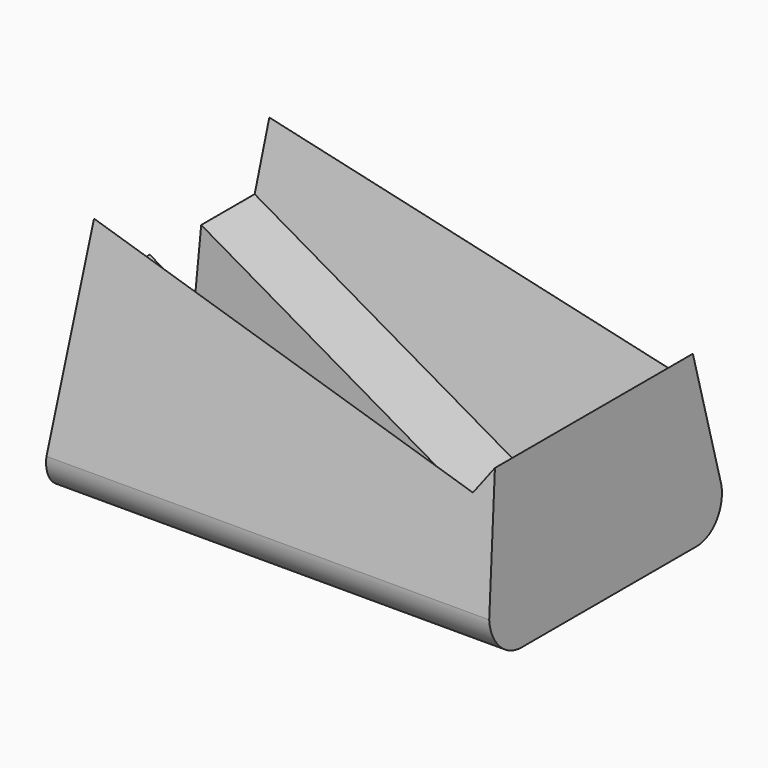
from build123d import *

# Parameters (mm, degrees)
SKETCH006_W             = 175
SKETCH006_H             = 25
PAD002_DEPTH            = 120
SKETCH003_W             = 175
SKETCH003_H             = 119
PAD001_DEPTH            = 116
POCKET002_DEPTH         = 119
POCKET003_DEPTH         = 570.168587
POCKET003_DEPTH_BACK    = 570.168587
BODY001_PLACEMENT_ANGLE = 150.002636
SKETCH_W                = 175
SKETCH_H                = 119
PAD_DEPTH               = 116
POCKET_DEPTH            = 119
POCKET001_DEPTH         = 570.168587
POCKET001_DEPTH_BACK    = 570.168587


with BuildPart() as obj1:
    # Sketch006 → Pad002 (new body)
    with BuildSketch(Plane.XY):
        with Locations((-42.5, 0)):
            Rectangle(SKETCH006_W, SKETCH006_H)
    extrude(amount=PAD002_DEPTH)


with BuildPart() as speaker:
    # Sketch003 → Pad001 (new body)
    with BuildSketch(Plane.XY):
        Rectangle(SKETCH003_W, SKETCH003_H)
    extrude(amount=PAD001_DEPTH)

    # Sketch004 (on Face3 of Pad001) → Pocket002 (cut)
    with BuildSketch(Plane.XZ.offset(59.5)):
        with BuildLine():
            ThreePointArc((78.010465, 100.071457), (72.847154, 111.240608), (61.5, 116))
            Line((87.5, 116), (61.5, 116))
            Line((87.5, 0), (87.5, 116))
            Line((78.010465, 100.071457), (87.5, 0))
        make_face()
    pocket002 = extrude(amount=-POCKET002_DEPTH, mode=Mode.SUBTRACT)

    # Mirrored002: Pocket002 across Sketch004 V_Axis
    add(pocket002.mirror(Plane(origin=(0, -59.5, 0), x_dir=(0, -1, 0), z_dir=(1, 0, 0))), mode=Mode.SUBTRACT)

    # Sketch005 → Pocket003 (cut, two sides)
    with BuildSketch(Plane.YZ) as pocket003_sk:
        with BuildLine():
            Line((-38.5, 116), (-59.5, 116))
            Line((-59.5, 116), (-59.5, 0))
            Line((-59.5, 0), (-42.5, 0))
            ThreePointArc((-56.482773, 14.693411), (-52.641661, 4.348792), (-42.5, 0))
            Line((-38.5, 116), (-56.482773, 14.693411))
        make_face()
    pocket003 = extrude(amount=-POCKET003_DEPTH, mode=Mode.SUBTRACT) + extrude(pocket003_sk.sketch, amount=POCKET003_DEPTH_BACK, mode=Mode.SUBTRACT)

    # Mirrored003: Pocket003 across Sketch005 V_Axis
    add(pocket003.mirror(Plane(origin=(0, 0, 0), x_dir=(1, 0, 0), z_dir=(0, 1, 0))), mode=Mode.SUBTRACT)


with BuildPart() as speaker_1:
    # Body001 placement: moved
    add(speaker.part.moved(Location((28.861963, 0, 137.939071))).rotate(Axis((28.861963, 0, 137.939071), (0, -1, 0)), BODY001_PLACEMENT_ANGLE))


with BuildPart() as cut001:
    # Sketch → Pad (new body)
    with BuildSketch(Plane.XY):
        Rectangle(SKETCH_W, SKETCH_H)
    extrude(amount=PAD_DEPTH)

    # Sketch001 (on Face3 of Pad) → Pocket (cut)
    with BuildSketch(Plane.XZ.offset(59.5)):
        with BuildLine():
            ThreePointArc((78.010465, 100.071457), (72.847154, 111.240608), (61.5, 116))
            Line((87.5, 116), (61.5, 116))
            Line((87.5, 0), (87.5, 116))
            Line((78.010465, 100.071457), (87.5, 0))
        make_face()
    pocket = extrude(amount=-POCKET_DEPTH, mode=Mode.SUBTRACT)

    # Mirrored: Pocket across Sketch001 V_Axis
    add(pocket.mirror(Plane(origin=(0, -59.5, 0), x_dir=(0, -1, 0), z_dir=(1, 0, 0))), mode=Mode.SUBTRACT)

    # Sketch002 → Pocket001 (cut, two sides)
    with BuildSketch(Plane.YZ) as pocket001_sk:
        with BuildLine():
            Line((-38.5, 116), (-59.5, 116))
            Line((-59.5, 116), (-59.5, 0))
            Line((-59.5, 0), (-42.5, 0))
            ThreePointArc((-56.48279, 14.693415), (-52.641674, 4.348787), (-42.5, 0))
            Line((-38.5, 116), (-56.48279, 14.693415))
        make_face()
    pocket001 = extrude(amount=-POCKET001_DEPTH, mode=Mode.SUBTRACT) + extrude(pocket001_sk.sketch, amount=POCKET001_DEPTH_BACK, mode=Mode.SUBTRACT)

    # Mirrored001: Pocket001 across Sketch002 V_Axis
    add(pocket001.mirror(Plane(origin=(0, 0, 0), x_dir=(1, 0, 0), z_dir=(0, 1, 0))), mode=Mode.SUBTRACT)

    # Cut: cut Speaker
    add(speaker_1.part, mode=Mode.SUBTRACT)

    # Cut001: cut obj1
    add(obj1.part, mode=Mode.SUBTRACT)


solid = cut001.part
